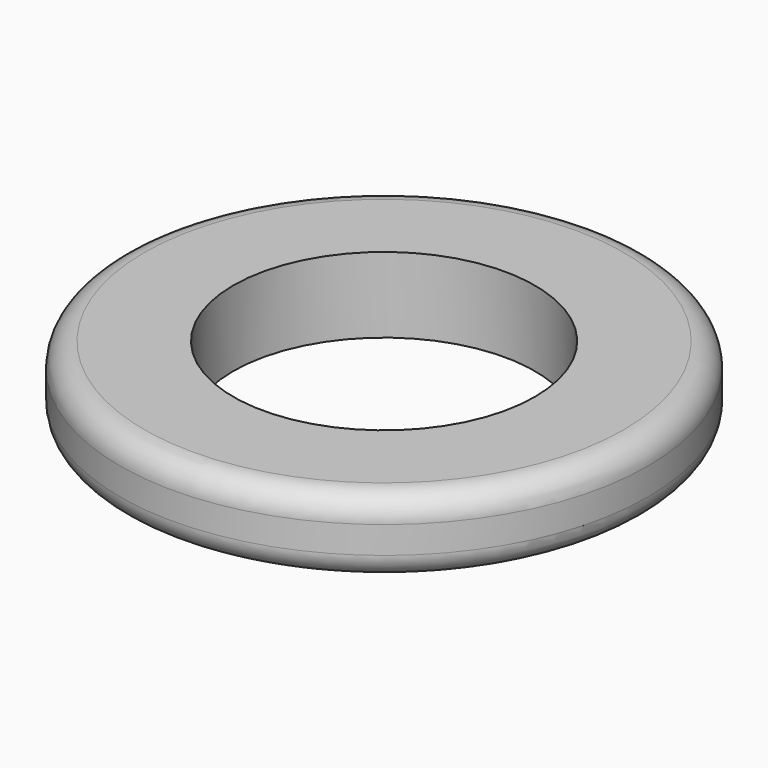
from build123d import *

# Parameters (mm, degrees)
F0_R     = 5.55625
F1_DEPTH = 0.79375
F2_R     = 3.175
F3_DEPTH = 1.5885
F4_R     = 0.508


with BuildPart() as f1:
    # F0 (on Top) → F1 (new body, symmetric)
    with BuildSketch(Plane.XY):
        Circle(F0_R)
    extrude(amount=F1_DEPTH, both=True)

    # F2 (on face) → F3 (cut, through all)
    with BuildSketch(Plane.XY.offset(0.79375)):
        Circle(F2_R)
    extrude(amount=-F3_DEPTH, mode=Mode.SUBTRACT)

    # F4
    f4_edges = [f1.edges().sort_by_distance(p)[0] for p in [
        (-5.55625, 0, 0.79375),
        (-5.55625, 0, -0.79375),
    ]]
    fillet(f4_edges, radius=F4_R)


solid = f1.part
